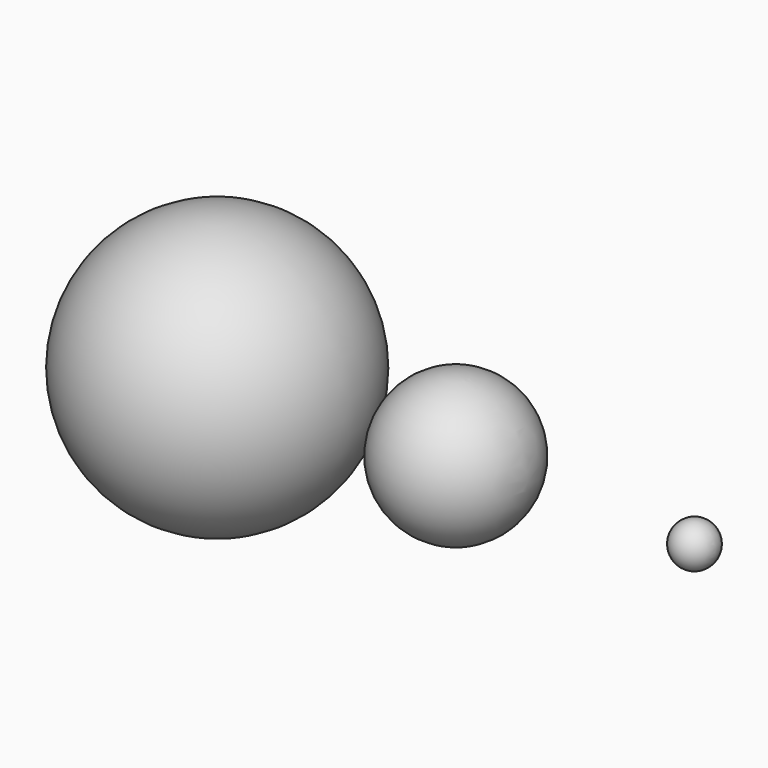
from build123d import *


with BuildPart() as f1:
    # F0 (on Front) → F1 (revolve)
    with BuildSketch(Plane.XZ):
        with BuildLine():
            Line((0, 140), (0, -140))
            ThreePointArc((0, -140), (140, 0), (0, 140))
        make_face()
    revolve(axis=Axis((0, 0, 0), (0, 0, -1)))


with BuildPart() as f2:
    # F0 (on Front) → F2 (revolve)
    with BuildSketch(Plane.XZ):
        with BuildLine():
            Line((250, 75), (250, -75))
            ThreePointArc((250, -75), (325, 0), (250, 75))
        make_face()
    revolve(axis=Axis((250, 0, 0), (0, 0, -1)))


with BuildPart() as f3:
    # F0 (on Front) → F3 (revolve)
    with BuildSketch(Plane.XZ):
        with BuildLine():
            Line((500, 22.5), (500, -22.5))
            ThreePointArc((500, -22.5), (522.5, 0), (500, 22.5))
        make_face()
    revolve(axis=Axis((500, 0, 0), (0, 0, -1)))


solid = Compound([f1.part, f2.part, f3.part])
